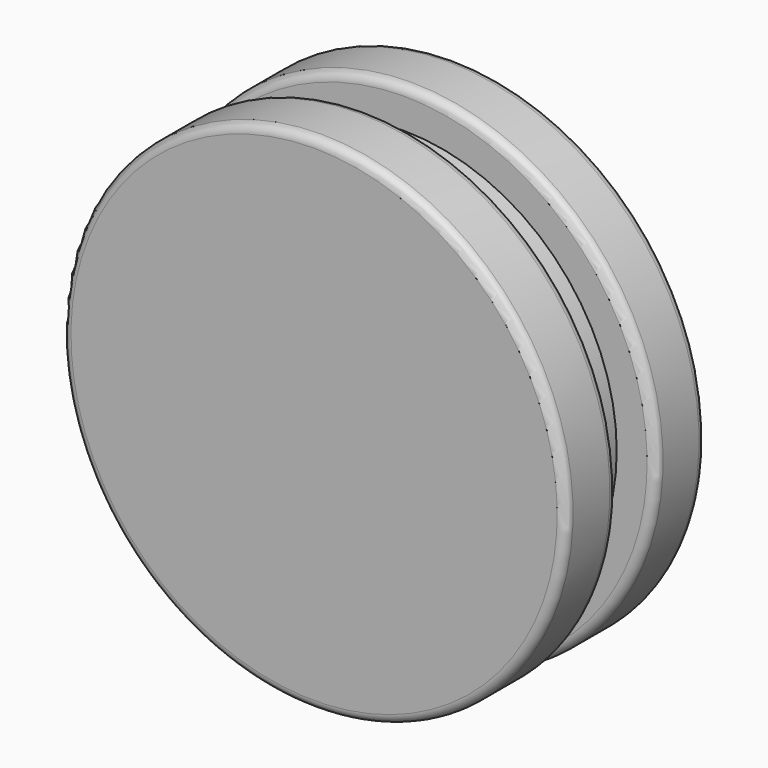
from build123d import *

# Parameters (mm, degrees)
F0_W   = 18.0498287082
F0_H   = 60.3165104985
F0_W_2 = 13.8382017612
F0_W_3 = 17.7489968482
F0_H_2 = 11.1307352781
F2_R   = 2.5
F3_R   = 2.5
F4_R   = 2.5
F5_R   = 2.5


with BuildPart() as f1:
    # F0 (on Right) → F1 (revolve)
    with BuildSketch(Plane.YZ):
        with Locations((-44.2220792174, 30.1582552493)):
            Rectangle(F0_W, F0_H)
        with Locations((-28.2780639827, 30.1582552493)):
            Rectangle(F0_W_2, F0_H)
        with Locations((-12.484464678, 30.1582552493)):
            Rectangle(F0_W_3, F0_H)
        with Locations((-12.484464678, 65.8818781376)):
            Rectangle(F0_W_3, F0_H_2)
        with Locations((-44.2220792174, 65.8818781376)):
            Rectangle(F0_W, F0_H_2)
    revolve(axis=Axis((0, -28.4284799127, 0), (0, 1, 0)))

    # F2
    f2_edges = [f1.edges().sort_by_distance(p)[0] for p in [
        (0, -35.197165, -71.447246),
    ]]
    fillet(f2_edges, radius=F2_R)

    # F3
    f3_edges = [f1.edges().sort_by_distance(p)[0] for p in [
        (0, -21.358963, -71.447246),
    ]]
    fillet(f3_edges, radius=F3_R)

    # F4
    f4_edges = [f1.edges().sort_by_distance(p)[0] for p in [
        (0, -53.246994, -71.447246),
    ]]
    fillet(f4_edges, radius=F4_R)

    # F5
    f5_edges = [f1.edges().sort_by_distance(p)[0] for p in [
        (0, -3.609966, -71.447246),
    ]]
    fillet(f5_edges, radius=F5_R)


solid = f1.part
